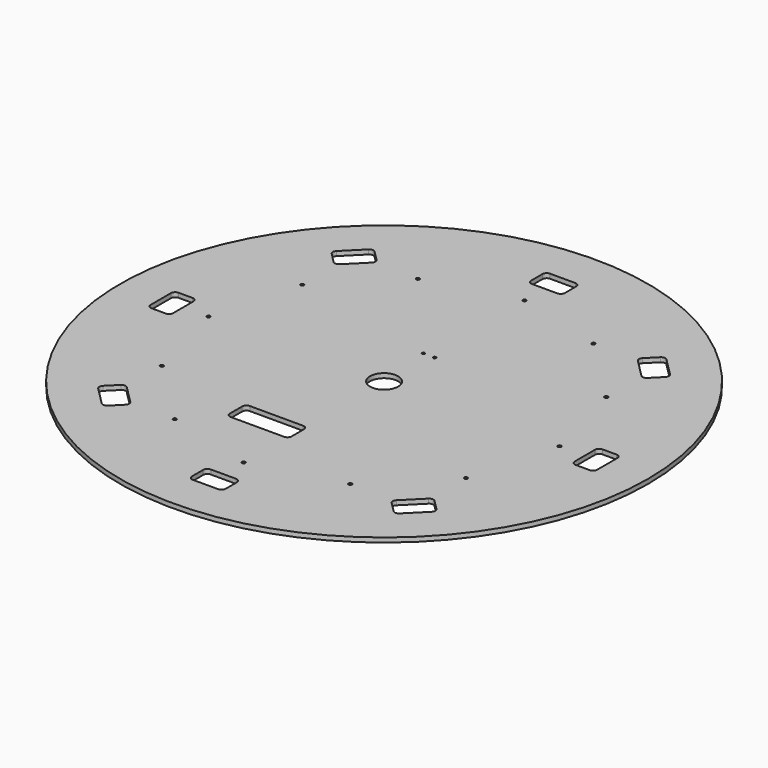
from build123d import *

# Parameters (mm, degrees)
F0_R      = 94
F1_DEPTH  = 1.6
F2_R      = 0.6
F3_DEPTH  = 1.6
F5_DEPTH  = 1.6
F6_COUNT  = 8
F6_ANGLE  = 315
F8_DEPTH  = 1.6
F9_R      = 0.5
F9_R_2    = 5
F10_DEPTH = 1.6


with BuildPart() as f1:
    # F0 (on Top) → F1 (new body)
    with BuildSketch(Plane.XY):
        Circle(F0_R)
    extrude(amount=F1_DEPTH)

    # F2 (on Top) → F3 (cut, through all)
    with BuildSketch(Plane.XY):
        with Locations((0, 62.5)):
            Circle(F2_R)
        with Locations((-31.25, 54.1265877365)):
            Circle(F2_R)
        with Locations((-54.1265877365, 31.25)):
            Circle(F2_R)
        with Locations((-62.5, 0)):
            Circle(F2_R)
        with Locations((-54.1265877365, -31.25)):
            Circle(F2_R)
        with Locations((-31.25, -54.1265877365)):
            Circle(F2_R)
        with Locations((0, -62.5)):
            Circle(F2_R)
        with Locations((31.25, -54.1265877365)):
            Circle(F2_R)
        with Locations((54.1265877365, -31.25)):
            Circle(F2_R)
        with Locations((62.5, 0)):
            Circle(F2_R)
        with Locations((54.1265877365, 31.25)):
            Circle(F2_R)
        with Locations((31.25, 54.1265877365)):
            Circle(F2_R)
    extrude(amount=F3_DEPTH, mode=Mode.SUBTRACT)

    # F4 (on face) → F5 (cut, through all)
    with BuildSketch(Plane.XY.offset(1.6)):
        with BuildLine():
            Line((4.5, 79.5), (-4.5, 79.5))
            ThreePointArc((-4.5, 79.5), (-5.5606601718, 79.0606601718), (-6, 78))
            Line((-6, 78), (-6, 73))
            ThreePointArc((-6, 73), (-5.5606601718, 71.9393398282), (-4.5, 71.5))
            Line((-4.5, 71.5), (4.5, 71.5))
            ThreePointArc((4.5, 71.5), (5.5606601718, 71.9393398282), (6, 73))
            Line((6, 73), (6, 78))
            ThreePointArc((6, 78), (5.5606601718, 79.0606601718), (4.5, 79.5))
        make_face()
    f5 = extrude(amount=-F5_DEPTH, mode=Mode.SUBTRACT)

    # F6: F5 ×8 about axis
    f6_axis = Axis((0, 0, 1.6), (0, 0, 1))
    for i in range(1, F6_COUNT):
        add(f5.rotate(f6_axis, i * F6_ANGLE / (F6_COUNT - 1)), mode=Mode.SUBTRACT)

    # F7 (on face) → F8 (cut, through all)
    with BuildSketch(Plane(origin=(0, 0, 0), x_dir=(1, 0, 0), z_dir=(0, 0, -1))):
        with BuildLine():
            Line((-0.9, 43.4), (-19.9, 43.4))
            ThreePointArc((-19.9, 43.4), (-20.9606601718, 42.9606601718), (-21.4, 41.9))
            Line((-21.4, 41.9), (-21.4, 36.4))
            ThreePointArc((-21.4, 36.4), (-20.9606601718, 35.3393398282), (-19.9, 34.9))
            Line((-19.9, 34.9), (-0.9, 34.9))
            ThreePointArc((-0.9, 34.9), (0.1606601718, 35.3393398282), (0.6, 36.4))
            Line((0.6, 36.4), (0.6, 41.9))
            ThreePointArc((0.6, 41.9), (0.1606601718, 42.9606601718), (-0.9, 43.4))
        make_face()
    extrude(amount=-F8_DEPTH, mode=Mode.SUBTRACT)

    # F9 (on face) → F10 (cut, through all)
    with BuildSketch(Plane.XY.offset(1.6)):
        with Locations((-2, 20)):
            Circle(F9_R)
        with Locations((2, 20)):
            Circle(F9_R)
        Circle(F9_R_2)
    extrude(amount=-F10_DEPTH, mode=Mode.SUBTRACT)


solid = f1.part
